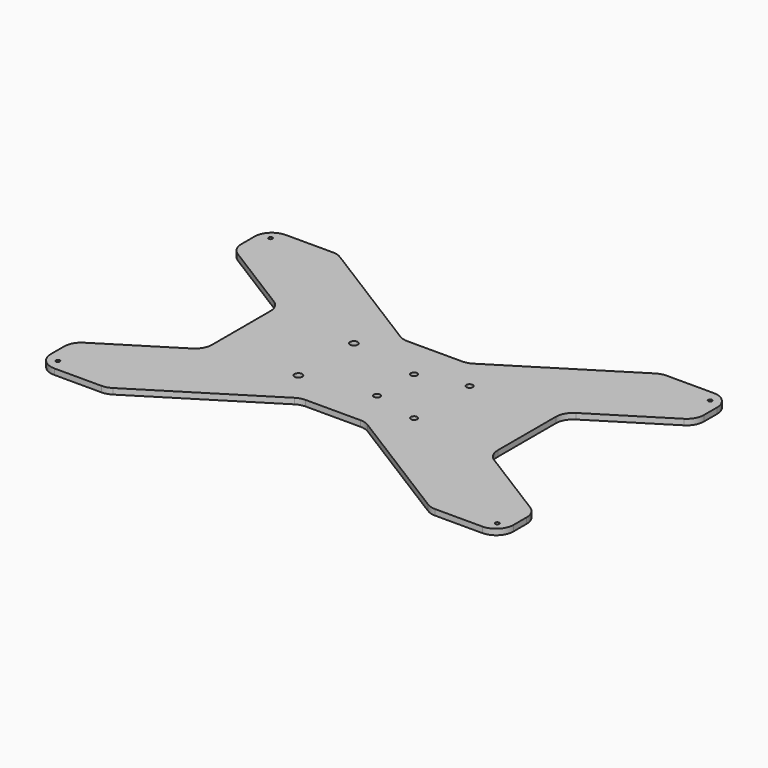
from build123d import *

# Parameters (mm, degrees)
F1_DEPTH = 5
F3_D     = 3.3
F3_DEPTH = 13.8
F3_TIP   = 0.9914200214
F4_D     = 5.5
F4_DEPTH = 13.8
F4_TIP   = 1.6523667023
F5_D     = 6.6
F5_DEPTH = 13.8
F5_TIP   = 1.9828400428
F6_R     = 15


with BuildPart() as f1:
    # F0 (on Top) → F1 (new body)
    with BuildSketch(Plane.XY):
        Polygon((140, -125), (200, -125), (200, -87.5), (123.5, -39.6875), (123.5, 39.6875), (200, 87.5), (200, 125), (140, 125), (28, 55), (-28, 55), (-140, 125), (-200, 125), (-200, 87.5), (-123.5, 39.6875), (-123.5, -39.6875), (-200, -87.5), (-200, -125), (-140, -125), (-28, -55), (28, -55), align=None)
    extrude(amount=F1_DEPTH)

    # F3
    with Locations(Plane.XY.offset(5)):
        with Locations((-190, 115), (-190, -115), (190, -115), (190, 115)):
            Hole(F3_D / 2, depth=F3_DEPTH)
            with Locations((0, 0, -(F3_DEPTH + F3_TIP / 2))):  # 118° drill point
                Cone(0, F3_D / 2, F3_TIP, mode=Mode.SUBTRACT)

    # F4
    with Locations(Plane.XY.offset(5)):
        with Locations((50, -30), (50, 30), (10, 20), (10, -20)):
            Hole(F4_D / 2, depth=F4_DEPTH)
            with Locations((0, 0, -(F4_DEPTH + F4_TIP / 2))):  # 118° drill point
                Cone(0, F4_D / 2, F4_TIP, mode=Mode.SUBTRACT)

    # F5
    with Locations(Plane.XY.offset(5)):
        with Locations((-50, 30), (-50, -30)):
            Hole(F5_D / 2, depth=F5_DEPTH)
            with Locations((0, 0, -(F5_DEPTH + F5_TIP / 2))):  # 118° drill point
                Cone(0, F5_D / 2, F5_TIP, mode=Mode.SUBTRACT)

    # F6
    f6_edges = [f1.edges().sort_by_distance(p)[0] for p in [
        (-28, -55, 2.5),
        (28, -55, 2.5),
        (140, -125, 2.5),
        (200, -125, 2.5),
        (200, -87.5, 2.5),
        (123.5, -39.6875, 2.5),
        (123.5, 39.6875, 2.5),
        (200, 87.5, 2.5),
        (200, 125, 2.5),
        (140, 125, 2.5),
        (28, 55, 2.5),
        (-28, 55, 2.5),
        (-140, 125, 2.5),
        (-200, 125, 2.5),
        (-200, 87.5, 2.5),
        (-123.5, 39.6875, 2.5),
        (-123.5, -39.6875, 2.5),
        (-200, -87.5, 2.5),
        (-200, -125, 2.5),
        (-140, -125, 2.5),
    ]]
    fillet(f6_edges, radius=F6_R)


solid = f1.part
